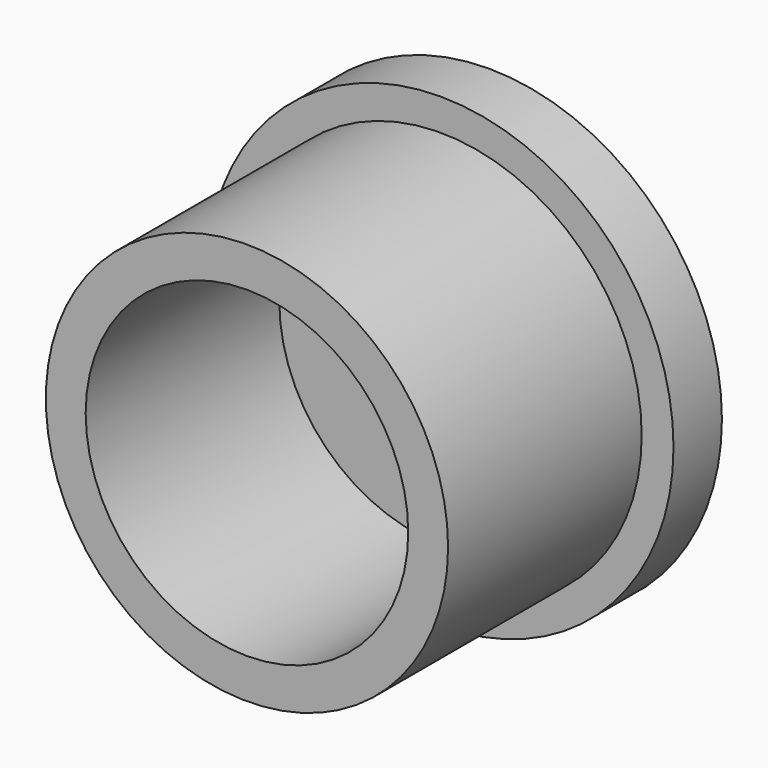
from build123d import *

# Parameters (mm, degrees)
F0_R     = 19.248811
F2_DEPTH = 5
F1_R     = 10
F3_DEPTH = 2
F1_R_2   = 16.619504
F1_R_3   = 13.327502
F4_DEPTH = 25
F5_DEPTH = 2


with BuildPart() as f2:
    # F0 (on Front) → F2 (new body)
    with BuildSketch(Plane.XZ):
        Circle(F0_R)
    extrude(amount=F2_DEPTH)

    # F1 (on Front) → F3 (cut)
    with BuildSketch(Plane.XZ):
        Circle(F1_R)
    extrude(amount=F3_DEPTH, mode=Mode.SUBTRACT)

    # F1 (on Front) → F4 (join)
    with BuildSketch(Plane.XZ):
        Circle(F1_R_2)
        Circle(F1_R_3, mode=Mode.SUBTRACT)
    extrude(amount=F4_DEPTH)

    # F1 (on Front) → F5 (cut)
    with BuildSketch(Plane.XZ):
        Circle(F1_R_2)
        Circle(F1_R_3, mode=Mode.SUBTRACT)
    extrude(amount=F5_DEPTH, mode=Mode.SUBTRACT)


solid = f2.part
